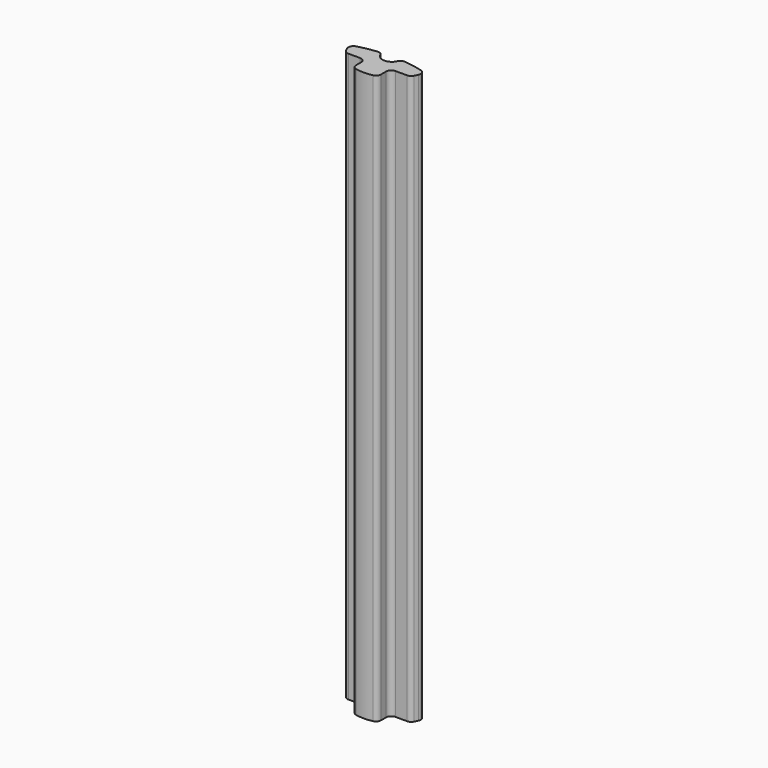
from build123d import *

# Parameters (mm, degrees)
CYLINDER001_R     = 0.9
CYLINDER001_DEPTH = 55
BOX006_W          = 2.42
BOX006_H          = 1.69
BOX006_DEPTH      = 55
BOX005_W          = 2.42
BOX005_H          = 1.69
BOX005_DEPTH      = 55
EXTRUDE010_DEPTH  = 55
FILLET010_R       = 0.5


with BuildPart() as cilindro:
    # Cylinder001 → Cylinder001 (new body)
    with BuildSketch(Plane(origin=(0, 12.21, 0), x_dir=(1, 0, 0), z_dir=(0, 0, 1))):
        Circle(CYLINDER001_R)
    extrude(amount=CYLINDER001_DEPTH)


with BuildPart() as cubo_der:
    # Box006 → Box006 (new body)
    with BuildSketch(Plane(origin=(1.21, 8.809483, 0), x_dir=(1, 0, 0), z_dir=(0, 0, 1))):
        with Locations((1.21, 0.845)):
            Rectangle(BOX006_W, BOX006_H)
    extrude(amount=BOX006_DEPTH)


with BuildPart() as obj1:
    # Box005 → Box005 (new body)
    with BuildSketch(Plane(origin=(-3.63, 8.809483, 0), x_dir=(1, 0, 0), z_dir=(0, 0, 1))):
        with Locations((1.21, 0.845)):
            Rectangle(BOX005_W, BOX005_H)
    extrude(amount=BOX005_DEPTH)


with BuildPart() as obj2:
    # Sketch009 → Extrude010 (new body)
    with BuildSketch(Plane.XY):
        with BuildLine():
            ThreePointArc((-3.632024, 11.657294), (0, 8.809483), (3.632024, 11.657294))
            ThreePointArc((3.632024, 11.657294), (0, 12.21), (-3.632024, 11.657294))
        make_face()
    extrude(amount=EXTRUDE010_DEPTH)

    # Cut004: cut obj1
    add(obj1.part, mode=Mode.SUBTRACT)

    # Cut005: cut Cubo der
    add(cubo_der.part, mode=Mode.SUBTRACT)

    # Cut006: cut Cilindro
    add(cilindro.part, mode=Mode.SUBTRACT)

    # Fillet010
    fillet010_edges = [obj2.edges().sort_by_distance(p)[0] for p in [
        (-3.128114, 10.499483, 27.5),
        (-3.632024, 11.657294, 27.5),
        (-1.21, 10.499483, 27.5),
        (-0.899389, 12.17683, 27.5),
        (3.128114, 10.499483, 27.5),
        (1.21, 10.499483, 27.5),
        (1.21, 9.010627, 27.5),
        (-1.21, 9.010627, 27.5),
        (0.899389, 12.17683, 27.5),
        (3.632024, 11.657294, 27.5),
    ]]
    fillet(fillet010_edges, radius=FILLET010_R)


with BuildPart() as obj2_1:
    # Clone017 placement: moved
    add(obj2.part.moved(Location((0, -21.15, 0))))


solid = obj2_1.part
